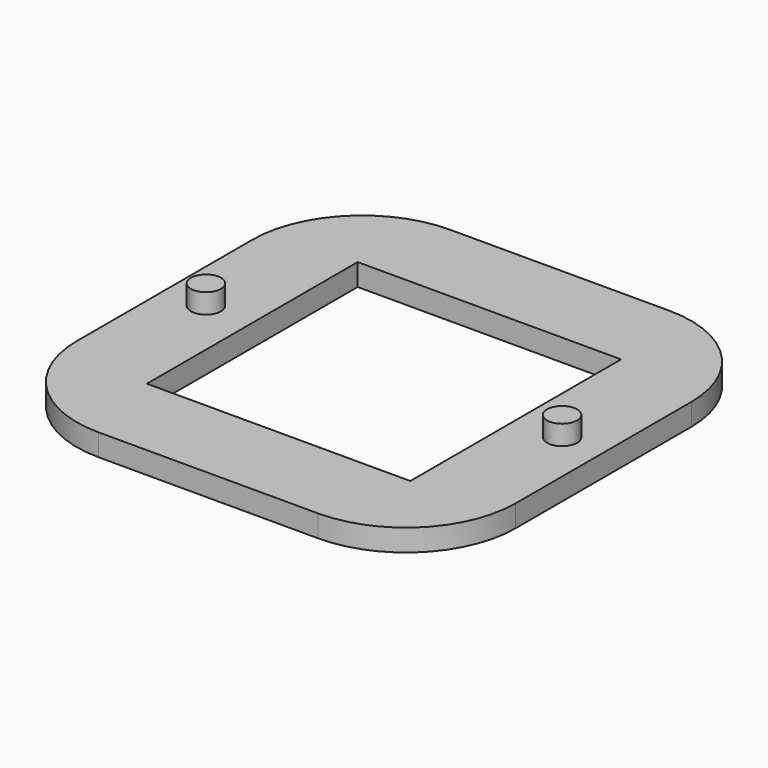
from build123d import *

# Parameters (mm, degrees)
F0_R     = 3.425
F0_W     = 60
F0_H     = 60
F1_DEPTH = 5
F2_DEPTH = 9.5


with BuildPart() as f1:
    # F0 (on Top) → F1 (new body)
    with BuildSketch(Plane.XY):
        with BuildLine():
            Line((-25, -50), (25, -50))
            ThreePointArc((25, -50), (42.67767, -42.67767), (50, -25))
            Line((50, -25), (50, 25))
            ThreePointArc((50, 25), (42.67767, 42.67767), (25, 50))
            Line((25, 50), (-25, 50))
            ThreePointArc((-25, 50), (-42.67767, 42.67767), (-50, 25))
            Line((-50, 25), (-50, -25))
            ThreePointArc((-50, -25), (-42.67767, -42.67767), (-25, -50))
        make_face()
        with Locations((-40.562063, 0)):
            Circle(F0_R, mode=Mode.SUBTRACT)
        Rectangle(F0_W, F0_H, mode=Mode.SUBTRACT)
        with Locations((40.562063, 0)):
            Circle(F0_R, mode=Mode.SUBTRACT)
    extrude(amount=F1_DEPTH)

    # F0 (on Top) → F2 (join)
    with BuildSketch(Plane.XY):
        with Locations((-40.562063, 0)):
            Circle(F0_R)
        with Locations((40.562063, 0)):
            Circle(F0_R)
    extrude(amount=F2_DEPTH)


solid = f1.part
